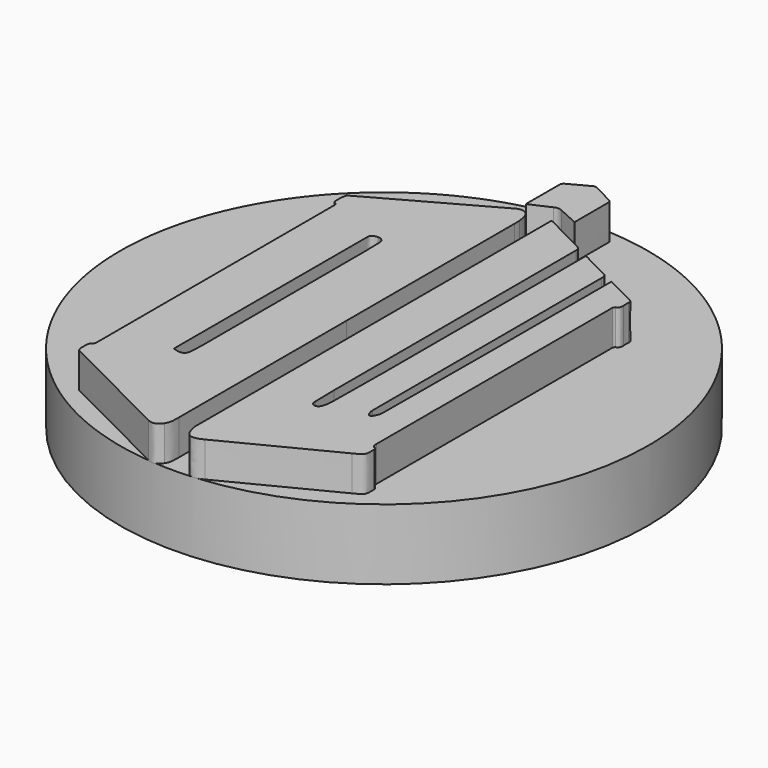
from build123d import *

# Parameters (mm, degrees)
F0_R     = 7.5
F2_DEPTH = 2
F3_DEPTH = 1


with BuildPart() as f2:
    # F0 (on Top) → F2 (new body)
    with BuildSketch(Plane.XY):
        Circle(F0_R)
    extrude(amount=-F2_DEPTH)

    # F1 (on Top) → F3 (join)
    with BuildSketch(Plane.XY):
        with BuildLine():
            add(Edge.make_bspline(
                [(-0.280562, -0.988632), (-0.280562, -2.967995), (-0.280347, -4.947572), (-0.28093, -6.927285)],
                knots=[0, 0, 0, 0, 1, 1, 1, 1], degree=3))
            add(Edge.make_bspline(
                [(-0.281544, -0.988632), (-0.281176, -0.988632), (-0.28093, -0.988632), (-0.280562, -0.988632)],
                knots=[0, 0, 0, 0, 1, 1, 1, 1], degree=3))
            add(Edge.make_bspline(
                [(-0.281667, 4.98995), (-0.281544, 2.997048), (-0.281544, 1.004269), (-0.281544, -0.988632)],
                knots=[0, 0, 0, 0, 1, 1, 1, 1], degree=3))
            add(Edge.make_bspline(
                [(-0.285965, 5.178851), (-0.277338, 5.117081), (-0.281667, 5.053163), (-0.281667, 4.98995)],
                knots=[0, 0, 0, 0, 1, 1, 1, 1], degree=3))
            add(Edge.make_bspline(
                [(-0.340889, 5.429491), (-0.310556, 5.35059), (-0.297969, 5.263401), (-0.285965, 5.178851)],
                knots=[0, 0, 0, 0, 1, 1, 1, 1], degree=3))
            add(Edge.make_bspline(
                [(-0.724647, 5.564635), (-0.56442, 5.653759), (-0.407079, 5.601814), (-0.340889, 5.429491)],
                knots=[0, 0, 0, 0, 1, 1, 1, 1], degree=3))
            add(Edge.make_bspline(
                [(-3.972567, 3.759192), (-2.890009, 4.360955), (-1.807332, 4.962995), (-0.724647, 5.564635)],
                knots=[0, 0, 0, 0, 1, 1, 1, 1], degree=3))
            add(Edge.make_bspline(
                [(-4.024374, 3.729566), (-4.008304, 3.740956), (-3.990076, 3.749705), (-3.972567, 3.759192)],
                knots=[0, 0, 0, 0, 1, 1, 1, 1], degree=3))
            add(Edge.make_bspline(
                [(-4.041883, 3.299634), (-4.090932, 3.316427), (-4.069945, 3.696808), (-4.024374, 3.729566)],
                knots=[0, 0, 0, 0, 1, 1, 1, 1], degree=3))
            add(Edge.make_bspline(
                [(-3.959015, 3.113158), (-3.959015, 3.185949), (-3.938028, 3.263898), (-4.041883, 3.299634)],
                knots=[0, 0, 0, 0, 1, 1, 1, 1], degree=3))
            add(Edge.make_bspline(
                [(-3.958655, -5.20337), (-3.958655, -2.431317), (-3.958655, 0.340736), (-3.959015, 3.113158)],
                knots=[0, 0, 0, 0, 1, 1, 1, 1], degree=3))
            add(Edge.make_bspline(
                [(-3.960214, -5.292356), (-3.954218, -5.263933), (-3.958655, -5.232993), (-3.958655, -5.20337)],
                knots=[0, 0, 0, 0, 1, 1, 1, 1], degree=3))
            add(Edge.make_bspline(
                [(-3.996192, -5.365509), (-3.976644, -5.356275), (-3.965851, -5.319099), (-3.960214, -5.292356)],
                knots=[0, 0, 0, 0, 1, 1, 1, 1], degree=3))
            add(Edge.make_bspline(
                [(-4.066467, -5.513017), (-4.070185, -5.449215), (-4.06275, -5.397889), (-3.996192, -5.365509)],
                knots=[0, 0, 0, 0, 1, 1, 1, 1], degree=3))
            add(Edge.make_bspline(
                [(-4.06287, -5.71149), (-4.072943, -5.64673), (-4.06251, -5.578974), (-4.066467, -5.513017)],
                knots=[0, 0, 0, 0, 1, 1, 1, 1], degree=3))
            add(Edge.make_bspline(
                [(-4.001588, -5.816066), (-4.032649, -5.800596), (-4.056993, -5.749267), (-4.06287, -5.71149)],
                knots=[0, 0, 0, 0, 1, 1, 1, 1], degree=3))
            add(Edge.make_bspline(
                [(-0.716143, -7.462986), (-1.812008, -6.915533), (-2.907518, -6.367477), (-4.001588, -5.816066)],
                knots=[0, 0, 0, 0, 1, 1, 1, 1], degree=3))
            add(Edge.make_bspline(
                [(-0.354335, -7.350617), (-0.444872, -7.494167), (-0.563591, -7.539138), (-0.716143, -7.462986)],
                knots=[0, 0, 0, 0, 1, 1, 1, 1], degree=3))
            add(Edge.make_bspline(
                [(-0.28093, -6.927285), (-0.281053, -7.072032), (-0.270246, -7.217141), (-0.354335, -7.350617)],
                knots=[0, 0, 0, 0, 1, 1, 1, 1], degree=3))
        make_face()
        with BuildLine():
            add(Edge.make_bspline(
                [(-2.435376, -4.423512), (-2.392082, -4.436093), (-2.357543, -4.446888), (-2.322646, -4.456242)],
                knots=[0, 0, 0, 0, 1, 1, 1, 1], degree=3))
            add(Edge.make_bspline(
                [(-2.435376, -4.304762), (-2.435376, -4.341112), (-2.435376, -4.377339), (-2.435376, -4.423512)],
                knots=[0, 0, 0, 0, 1, 1, 1, 1], degree=3))
            add(Edge.make_bspline(
                [(-2.435376, 2.421196), (-2.435376, 0.17919), (-2.435376, -2.062786), (-2.435376, -4.304762)],
                knots=[0, 0, 0, 0, 1, 1, 1, 1], degree=3))
            add(Edge.make_bspline(
                [(-2.244095, 2.596282), (-2.389923, 2.584524), (-2.435376, 2.542894), (-2.435376, 2.421196)],
                knots=[0, 0, 0, 0, 1, 1, 1, 1], degree=3))
            add(Edge.make_bspline(
                [(-2.057254, 2.42838), (-2.06193, 2.525149), (-2.154993, 2.603466), (-2.244095, 2.596282)],
                knots=[0, 0, 0, 0, 1, 1, 1, 1], degree=3))
            add(Edge.make_bspline(
                [(-2.044062, 1.921083), (-2.044421, 2.090182), (-2.04922, 2.259281), (-2.057254, 2.42838)],
                knots=[0, 0, 0, 0, 1, 1, 1, 1], degree=3))
            add(Edge.make_bspline(
                [(-2.039626, -3.909399), (-2.040225, -1.966018), (-2.041664, -0.022268), (-2.044062, 1.921083)],
                knots=[0, 0, 0, 0, 1, 1, 1, 1], degree=3))
            add(Edge.make_bspline(
                [(-2.054856, -4.267369), (-2.047062, -4.148035), (-2.039626, -4.028702), (-2.039626, -3.909399)],
                knots=[0, 0, 0, 0, 1, 1, 1, 1], degree=3))
            add(Edge.make_bspline(
                [(-2.322646, -4.456242), (-2.152954, -4.501452), (-2.066249, -4.441251), (-2.054856, -4.267369)],
                knots=[0, 0, 0, 0, 1, 1, 1, 1], degree=3))
        make_face(mode=Mode.SUBTRACT)
        with BuildLine():
            add(Edge.make_bspline(
                [(0.269532, 5.617778), (0.315583, 5.595827), (0.348065, 5.581428), (0.379717, 5.565249)],
                knots=[0, 0, 0, 0, 1, 1, 1, 1], degree=3))
            add(Edge.make_bspline(
                [(0.269532, 5.508637), (0.269532, 5.540658), (0.269532, 5.572802), (0.269532, 5.617778)],
                knots=[0, 0, 0, 0, 1, 1, 1, 1], degree=3))
            add(Edge.make_bspline(
                [(0.26987, -6.94791), (0.269532, -2.795887), (0.269532, 1.356498), (0.269532, 5.508637)],
                knots=[0, 0, 0, 0, 1, 1, 1, 1], degree=3))
            add(Edge.make_bspline(
                [(0.277085, -7.10681), (0.26591, -7.055844), (0.26987, -7.001037), (0.26987, -6.94791)],
                knots=[0, 0, 0, 0, 1, 1, 1, 1], degree=3))
            add(Edge.make_bspline(
                [(0.837832, -7.399786), (0.442561, -7.604497), (0.346161, -7.42497), (0.277085, -7.10681)],
                knots=[0, 0, 0, 0, 1, 1, 1, 1], degree=3))
            add(Edge.make_bspline(
                [(3.801181, -5.884541), (2.813357, -6.389664), (1.822893, -6.889508), (0.837832, -7.399786)],
                knots=[0, 0, 0, 0, 1, 1, 1, 1], degree=3))
            add(Edge.make_bspline(
                [(4.067417, -5.438663), (4.072667, -5.744229), (4.073281, -5.745669), (3.801181, -5.884541)],
                knots=[0, 0, 0, 0, 1, 1, 1, 1], degree=3))
            add(Edge.make_bspline(
                [(4.067294, -5.418876), (4.070057, -5.424031), (4.067294, -5.432065), (4.067417, -5.438663)],
                knots=[0, 0, 0, 0, 1, 1, 1, 1], degree=3))
            add(Edge.make_bspline(
                [(4.027844, -5.359274), (4.045589, -5.364668), (4.05529, -5.397889), (4.067294, -5.418876)],
                knots=[0, 0, 0, 0, 1, 1, 1, 1], degree=3))
            add(Edge.make_bspline(
                [(3.940163, -5.194378), (3.940163, -5.268729), (3.940777, -5.331929), (4.027844, -5.359274)],
                knots=[0, 0, 0, 0, 1, 1, 1, 1], degree=3))
            add(Edge.make_bspline(
                [(3.941114, 3.123351), (3.941114, 0.350929), (3.94136, -2.421738), (3.940163, -5.194378)],
                knots=[0, 0, 0, 0, 1, 1, 1, 1], degree=3))
            add(Edge.make_bspline(
                [(3.942803, 3.19255), (3.936571, 3.171305), (3.941114, 3.146714), (3.941114, 3.123351)],
                knots=[0, 0, 0, 0, 1, 1, 1, 1], degree=3))
            add(Edge.make_bspline(
                [(3.979859, 3.254657), (3.961868, 3.248057), (3.949404, 3.215668), (3.942803, 3.19255)],
                knots=[0, 0, 0, 0, 1, 1, 1, 1], degree=3))
            add(Edge.make_bspline(
                [(4.068614, 3.430357), (4.073987, 3.352623), (4.066926, 3.286678), (3.979859, 3.254657)],
                knots=[0, 0, 0, 0, 1, 1, 1, 1], degree=3))
            add(Edge.make_bspline(
                [(4.068737, 3.609281), (4.06404, 3.549905), (4.064408, 3.489701), (4.068614, 3.430357)],
                knots=[0, 0, 0, 0, 1, 1, 1, 1], degree=3))
            add(Edge.make_bspline(
                [(3.999415, 3.724162), (4.052281, 3.699203), (4.073404, 3.667182), (4.068737, 3.609281)],
                knots=[0, 0, 0, 0, 1, 1, 1, 1], degree=3))
            add(Edge.make_bspline(
                [(3.518858, 3.963044), (3.678962, 3.883314), (3.837868, 3.800914), (3.999415, 3.724162)],
                knots=[0, 0, 0, 0, 1, 1, 1, 1], degree=3))
            add(Edge.make_bspline(
                [(3.136788, 4.151945), (3.271718, 4.085386), (3.395595, 4.024568), (3.518858, 3.963044)],
                knots=[0, 0, 0, 0, 1, 1, 1, 1], degree=3))
            add(Edge.make_bspline(
                [(3.136788, 4.018827), (3.136788, 4.058155), (3.136788, 4.097359), (3.136788, 4.151945)],
                knots=[0, 0, 0, 0, 1, 1, 1, 1], degree=3))
            add(Edge.make_bspline(
                [(3.136205, 0.148243), (3.13906, 1.438407), (3.136788, 2.728786), (3.136788, 4.018827)],
                knots=[0, 0, 0, 0, 1, 1, 1, 1], degree=3))
            add(Edge.make_bspline(
                [(3.115912, -3.960608), (3.126473, -2.591052), (3.133196, -1.221282), (3.136205, 0.148243)],
                knots=[0, 0, 0, 0, 1, 1, 1, 1], degree=3))
            add(Edge.make_bspline(
                [(3.035568, -4.185091), (3.075264, -4.117458), (3.115329, -4.036132), (3.115912, -3.960608)],
                knots=[0, 0, 0, 0, 1, 1, 1, 1], degree=3))
            add(Edge.make_bspline(
                [(2.911568, -4.174653), (2.94058, -4.240629), (3.00321, -4.240629), (3.035568, -4.185091)],
                knots=[0, 0, 0, 0, 1, 1, 1, 1], degree=3))
            add(Edge.make_bspline(
                [(2.864197, -3.988546), (2.864197, -4.050776), (2.886025, -4.116844), (2.911568, -4.174653)],
                knots=[0, 0, 0, 0, 1, 1, 1, 1], degree=3))
            add(Edge.make_bspline(
                [(2.857842, 4.150502), (2.859285, 1.437456), (2.860482, -1.275499), (2.864197, -3.988546)],
                knots=[0, 0, 0, 0, 1, 1, 1, 1], degree=3))
            add(Edge.make_bspline(
                [(2.856062, 4.229403), (2.865057, 4.206255), (2.857842, 4.176874), (2.857842, 4.150502)],
                knots=[0, 0, 0, 0, 1, 1, 1, 1], degree=3))
            add(Edge.make_bspline(
                [(2.796073, 4.325342), (2.825361, 4.309992), (2.842369, 4.264432), (2.856062, 4.229403)],
                knots=[0, 0, 0, 0, 1, 1, 1, 1], degree=3))
            add(Edge.make_bspline(
                [(1.973295, 4.745542), (2.248158, 4.606806), (2.523512, 4.46853), (2.796073, 4.325342)],
                knots=[0, 0, 0, 0, 1, 1, 1, 1], degree=3))
            add(Edge.make_bspline(
                [(1.924942, 4.758743), (1.944744, 4.753708), (1.96034, 4.752143), (1.973295, 4.745542)],
                knots=[0, 0, 0, 0, 1, 1, 1, 1], degree=3))
            add(Edge.make_bspline(
                [(1.924942, 4.622402), (1.924942, 4.665198), (1.924942, 4.708394), (1.924942, 4.758743)],
                knots=[0, 0, 0, 0, 1, 1, 1, 1], degree=3))
            add(Edge.make_bspline(
                [(1.923744, -2.441755), (1.925924, -0.087046), (1.92485, 2.267693), (1.924942, 4.622402)],
                knots=[0, 0, 0, 0, 1, 1, 1, 1], degree=3))
            add(Edge.make_bspline(
                [(1.904434, -4.222638), (1.914166, -3.62901), (1.923161, -3.035383), (1.923744, -2.441755)],
                knots=[0, 0, 0, 0, 1, 1, 1, 1], degree=3))
            add(Edge.make_bspline(
                [(1.857922, -4.504212), (1.887794, -4.414855), (1.902776, -4.317135), (1.904434, -4.222638)],
                knots=[0, 0, 0, 0, 1, 1, 1, 1], degree=3))
            add(Edge.make_bspline(
                [(1.696867, -4.605549), (1.781048, -4.628574), (1.836677, -4.567772), (1.857922, -4.504212)],
                knots=[0, 0, 0, 0, 1, 1, 1, 1], degree=3))
            add(Edge.make_bspline(
                [(1.605225, -4.447486), (1.606423, -4.518601), (1.620115, -4.584801), (1.696867, -4.605549)],
                knots=[0, 0, 0, 0, 1, 1, 1, 1], degree=3))
            add(Edge.make_bspline(
                [(1.590735, -3.771124), (1.590857, -3.996558), (1.601173, -4.222024), (1.605225, -4.447486)],
                knots=[0, 0, 0, 0, 1, 1, 1, 1], degree=3))
            add(Edge.make_bspline(
                [(1.585454, 4.835249), (1.58484, 1.966673), (1.587357, -0.902271), (1.590735, -3.771124)],
                knots=[0, 0, 0, 0, 1, 1, 1, 1], degree=3))
            add(Edge.make_bspline(
                [(1.478247, 5.007603), (1.556902, 4.968613), (1.585454, 4.925816), (1.585454, 4.835249)],
                knots=[0, 0, 0, 0, 1, 1, 1, 1], degree=3))
            add(Edge.make_bspline(
                [(0.379717, 5.565249), (0.745607, 5.378743), (1.110177, 5.189872), (1.478247, 5.007603)],
                knots=[0, 0, 0, 0, 1, 1, 1, 1], degree=3))
        make_face()
        with BuildLine():
            add(Edge.make_bspline(
                [(-0.676938, 5.882448), (-0.676938, 6.300131), (-0.678012, 6.701173), (-0.67442, 7.102062)],
                knots=[0, 0, 0, 0, 1, 1, 1, 1], degree=3))
            add(Edge.make_bspline(
                [(-0.098292, 6.143864), (-0.284522, 6.051885), (-0.476892, 5.971787), (-0.676938, 5.882448)],
                knots=[0, 0, 0, 0, 1, 1, 1, 1], degree=3))
            add(Edge.make_bspline(
                [(0.132577, 6.142421), (0.050667, 6.182608), (-0.015185, 6.185126), (-0.098292, 6.143864)],
                knots=[0, 0, 0, 0, 1, 1, 1, 1], degree=3))
            add(Edge.make_bspline(
                [(0.700539, 5.88604), (0.510809, 5.970958), (0.319052, 6.051302), (0.132577, 6.142421)],
                knots=[0, 0, 0, 0, 1, 1, 1, 1], degree=3))
            add(Edge.make_bspline(
                [(0.711683, 5.913609), (0.711683, 5.907623), (0.707109, 5.901974), (0.700539, 5.88604)],
                knots=[0, 0, 0, 0, 1, 1, 1, 1], degree=3))
            add(Edge.make_bspline(
                [(0.710608, 7.097641), (0.713709, 6.702954), (0.712389, 6.30842), (0.711683, 5.913609)],
                knots=[0, 0, 0, 0, 1, 1, 1, 1], degree=3))
            add(Edge.make_bspline(
                [(0.655685, 7.17691), (0.681474, 7.162634), (0.710486, 7.12475), (0.710608, 7.097641)],
                knots=[0, 0, 0, 0, 1, 1, 1, 1], degree=3))
            add(Edge.make_bspline(
                [(0.067092, 7.487631), (0.265326, 7.388346), (0.461289, 7.283749), (0.655685, 7.17691)],
                knots=[0, 0, 0, 0, 1, 1, 1, 1], degree=3))
            add(Edge.make_bspline(
                [(-0.049478, 7.487631), (-0.017949, 7.503565), (0.03544, 7.503565), (0.067092, 7.487631)],
                knots=[0, 0, 0, 0, 1, 1, 1, 1], degree=3))
            add(Edge.make_bspline(
                [(-0.618146, 7.1817), (-0.430473, 7.287126), (-0.241111, 7.389881), (-0.049478, 7.487631)],
                knots=[0, 0, 0, 0, 1, 1, 1, 1], degree=3))
            add(Edge.make_bspline(
                [(-0.67442, 7.102062), (-0.674298, 7.129416), (-0.644426, 7.167055), (-0.618146, 7.1817)],
                knots=[0, 0, 0, 0, 1, 1, 1, 1], degree=3))
        make_face()
    extrude(amount=F3_DEPTH)


solid = f2.part
